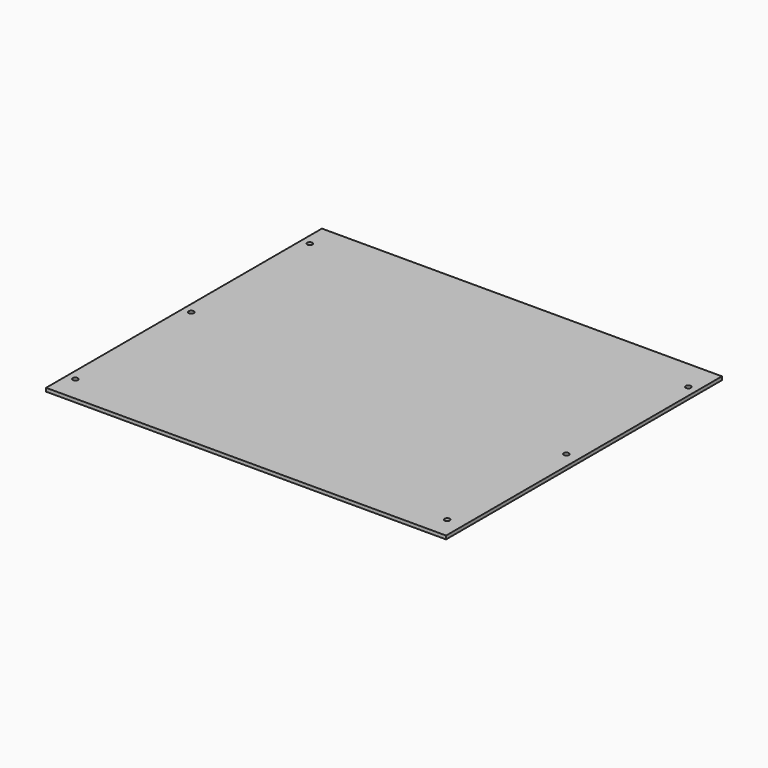
from build123d import *

# Parameters (mm, degrees)
F0_W     = 368.3
F0_H     = 317.5
F1_DEPTH = 3.175
F2_R     = 2.38125
F3_DEPTH = 25.4


with BuildPart() as f1:
    # F0 (on Top) → F1 (new body)
    with BuildSketch(Plane.XY):
        with Locations((3.687429, -62.873167)):
            Rectangle(F0_W, F0_H)
    extrude(amount=F1_DEPTH)

    # F2 (on face) → F3 (cut)
    with BuildSketch(Plane.XY.offset(3.175)):
        with Locations((-172.525071, -197.810667)):
            Circle(F2_R)
        with Locations((-172.525071, -64.460667)):
            Circle(F2_R)
        with Locations((-172.525071, 72.064333)):
            Circle(F2_R)
        with Locations((173.031575, -201.823945)):
            Circle(F2_R)
        with Locations((176.128598, -68.509914)):
            Circle(F2_R)
        with Locations((179.299359, 67.978261)):
            Circle(F2_R)
    extrude(amount=-F3_DEPTH, mode=Mode.SUBTRACT)


solid = f1.part
